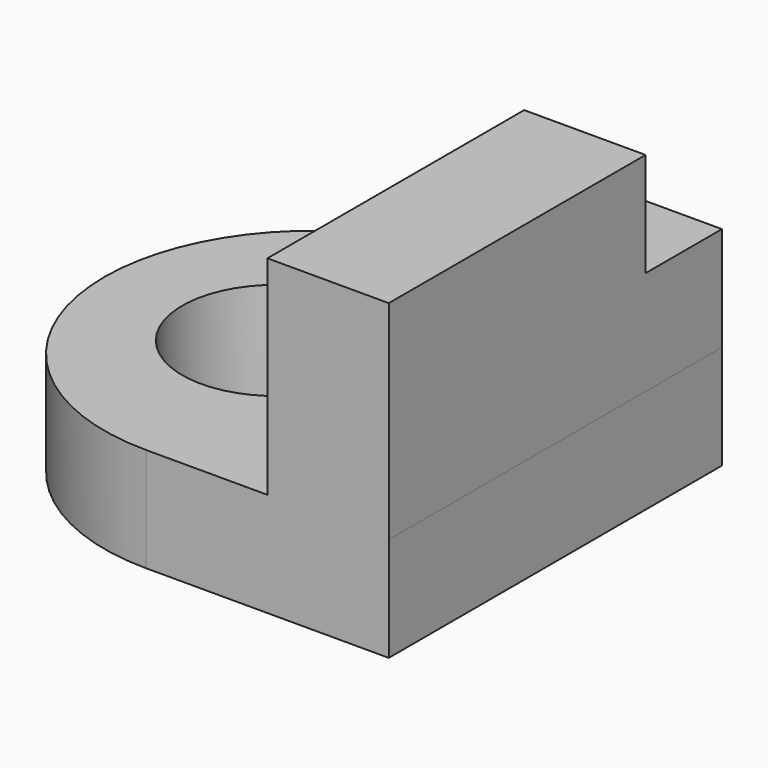
from build123d import *

# Parameters (mm, degrees)
F1_DEPTH = 25.4
F2_R     = 22.963288
F3_DEPTH = 25.401
F4_W     = 29.611313
F4_H     = 101.6
F5_DEPTH = 25.4
F6_W     = 29.611313
F6_H     = 78.306478
F7_DEPTH = 25.4


with BuildPart() as f1:
    # F0 (on Top) → F1 (new body)
    with BuildSketch(Plane.XY):
        with BuildLine():
            Line((-4.211313, -50.8), (55.011313, -50.8))
            Line((55.011313, -50.8), (55.011313, 50.8))
            Line((55.011313, 50.8), (-4.211313, 50.8))
            ThreePointArc((-4.211313, 50.8), (-40.132338, 35.921024), (-55.011313, 0))
            ThreePointArc((-55.011313, 0), (-40.132338, -35.921024), (-4.211313, -50.8))
        make_face()
    extrude(amount=F1_DEPTH)

    # F2 (on face) → F3 (cut, through all)
    with BuildSketch(Plane.XY.offset(25.4)):
        with Locations((-13.065578, 0)):
            Circle(F2_R)
    extrude(amount=-F3_DEPTH, mode=Mode.SUBTRACT)

    # F4 (on face) → F5 (join)
    with BuildSketch(Plane.XY.offset(25.4)):
        with Locations((40.205656, 0)):
            Rectangle(F4_W, F4_H)
    extrude(amount=F5_DEPTH)

    # F6 (on face) → F7 (join)
    with BuildSketch(Plane.XY.offset(50.8)):
        with Locations((40.205656, -11.646761)):
            Rectangle(F6_W, F6_H)
    extrude(amount=F7_DEPTH)


solid = f1.part
